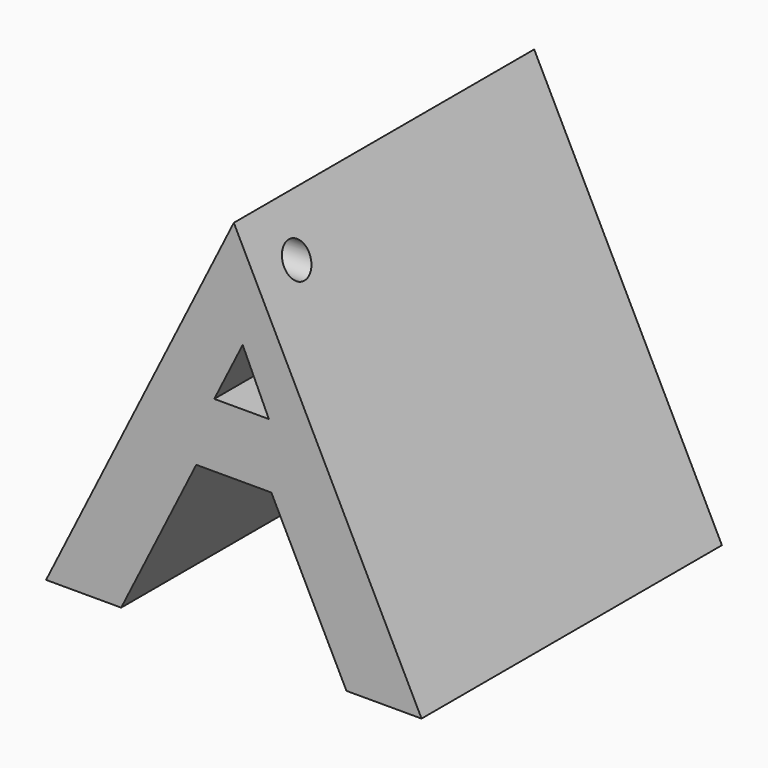
from build123d import *

# Parameters (mm, degrees)
F0_W     = 38.1
F0_H     = 38.1
F1_DEPTH = 38.1
F5_DEPTH = 38.1
F6_R     = 1.5875
F7_DEPTH = 38.1


with BuildPart() as f1:
    # F0 (on Front) → F1 (new body)
    with BuildSketch(Plane.XZ):
        with Locations((19.05, 19.05)):
            Rectangle(F0_W, F0_H)
    extrude(amount=F1_DEPTH)

    # F4 (on offset) → F5 (cut)
    with BuildSketch(Plane.XZ.offset(38.1)):
        Polygon((19.05, 38.1), (0, 38.1), (0, 0), align=None)
        Polygon((22.606704, 21.720167), (19.947089, 27.482659), (17.065844, 21.720167), align=None)
        Polygon((15.24, 15.24), (7.62, 0), (30.48, 0), (22.86, 15.24), align=None)
        Polygon((38.1, 38.1), (19.05, 38.1), (38.1, 0), align=None)
    extrude(amount=-F5_DEPTH, mode=Mode.SUBTRACT)

    # F6 (on offset) → F7 (cut)
    with BuildSketch(Plane.YZ.offset(38.1)):
        with Locations((-33.023518, 33.466786)):
            Circle(F6_R)
    extrude(amount=-F7_DEPTH, mode=Mode.SUBTRACT)


solid = f1.part
